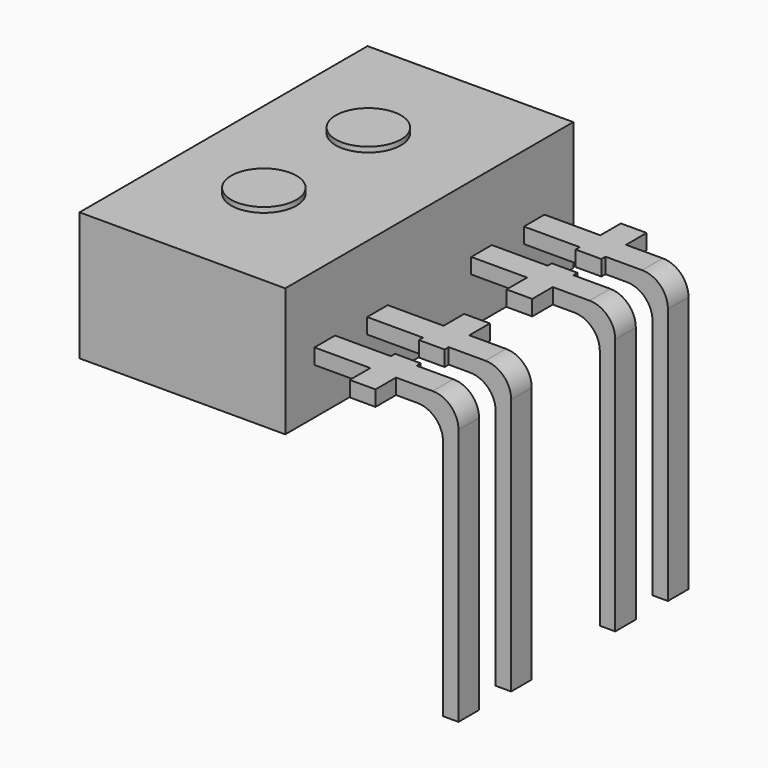
from build123d import *

# Parameters (mm, degrees)
SKETCH_W          = 0.5
SKETCH_H          = 0.3
PAD_DEPTH         = 2.8
SKETCH001_W       = 0.5
SKETCH001_H       = 0.3
PAD001_DEPTH      = 5.2
FILLET_R          = 0.5
FILLET001_R       = 0.5
SKETCH002_W       = 0.3
SKETCH002_H       = 0.5
PAD002_DEPTH      = 0.5
PAD002_DEPTH_BACK = 0.6
ARRAY_Y_COUNT     = 2
ARRAY_Y_PITCH     = 3.81
ARRAY001_Y_COUNT  = 2
ARRAY001_Y_PITCH  = 3.81
SKETCH003_W       = 4
SKETCH003_H       = 7
PAD003_DEPTH      = 1.45
PAD003_DEPTH_BACK = 1.05
SKETCH004_R       = 0.635
PAD004_DEPTH      = 0.1


with BuildPart() as pad002:
    # Sketch → Pad (new body)
    with BuildSketch(Plane.YZ):
        Rectangle(SKETCH_W, SKETCH_H)
    extrude(amount=PAD_DEPTH)

    # Sketch001 → Pad001 (new body)
    with BuildSketch(Plane.YX.offset(0.15)):
        with Locations((0, 2.65)):
            Rectangle(SKETCH001_W, SKETCH001_H)
    extrude(amount=PAD001_DEPTH)

    # Fillet
    fillet_edges = [pad002.edges().sort_by_distance(p)[0] for p in [
        (2.5, 0, -0.15),
    ]]
    fillet(fillet_edges, radius=FILLET_R)

    # Fillet001
    fillet001_edges = [pad002.edges().sort_by_distance(p)[0] for p in [
        (2.8, 0, 0.15),
    ]]
    fillet(fillet001_edges, radius=FILLET001_R)

    # Sketch002 → Pad002 (new body, two sides)
    with BuildSketch(Plane(origin=(0, -0.25, 0), x_dir=(0, 0, -1), z_dir=(0, -1, 0))) as pad002_sk:
        with Locations((0, 1.336115)):
            Rectangle(SKETCH002_W, SKETCH002_H)
    extrude(amount=PAD002_DEPTH)
    extrude(pad002_sk.sketch, amount=-PAD002_DEPTH_BACK)


with BuildPart() as array:
    # mirror: instance of Pad002
    add(pad002.part.mirror(Plane(origin=(0, 0.64, -1), x_dir=(-1, 0, 0), z_dir=(0, -1, 0))))

    # Array Y: Array ×2


with BuildPart() as array_1:
    add(array.part)
    with Locations(*[(0, i * ARRAY_Y_PITCH, 0) for i in range(1, ARRAY_Y_COUNT)]):
        add(array.part)


with BuildPart() as array001:
    # Array001 base: copy of Pad002
    add(pad002.part)

    # Array001 Y: Array001 ×2


with BuildPart() as array001_1:
    add(array001.part)
    with Locations(*[(0, i * ARRAY001_Y_PITCH, 0) for i in range(1, ARRAY001_Y_COUNT)]):
        add(array001.part)


with BuildPart() as pad004:
    # Sketch003 → Pad003 (new body, two sides)
    with BuildSketch(Plane.XY) as pad003_sk:
        with Locations((-2, 2.54)):
            Rectangle(SKETCH003_W, SKETCH003_H)
    extrude(amount=PAD003_DEPTH)
    extrude(pad003_sk.sketch, amount=-PAD003_DEPTH_BACK)

    # Sketch004 → Pad004 (new body)
    with BuildSketch(Plane.XY.offset(1.45)):
        with Locations((-2.2, 1.27)):
            Circle(SKETCH004_R)
        with Locations((-2.2, 3.81)):
            Circle(SKETCH004_R)
    extrude(amount=PAD004_DEPTH)


solid = Compound([array_1.part, array001_1.part, pad004.part])
